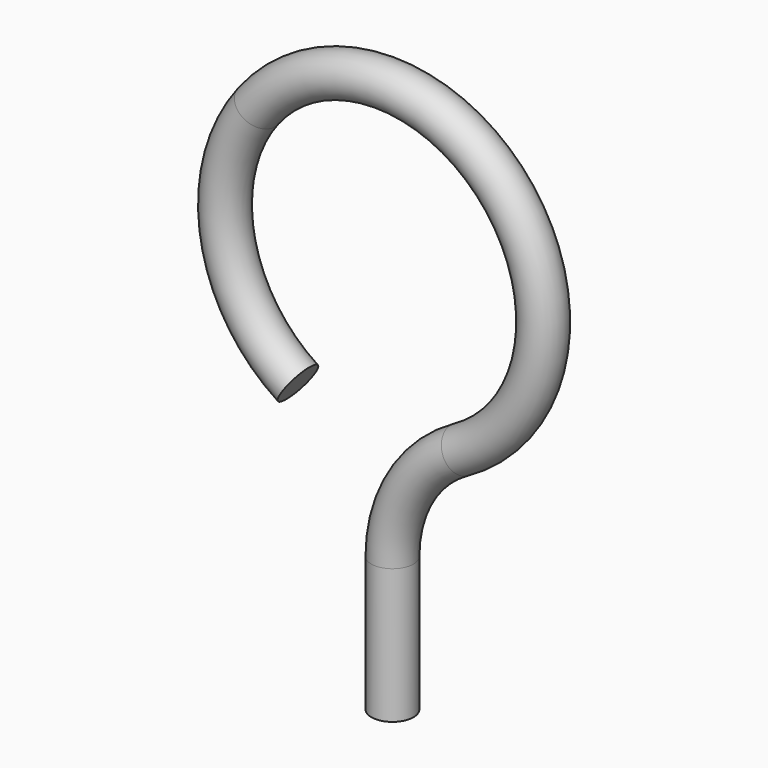
from build123d import *

# Parameters (mm, degrees)
F0_R = 0.79375


with BuildPart() as f2:
    # F2: sweep along a path in F1
    with BuildLine(Plane.XZ) as f2_path:
        Line((0, 0), (0, 5.08))
        ThreePointArc((0, 5.08), (0.694055, 7.622462), (2.583682, 9.459617))
        ThreePointArc((2.583682, 9.459617), (4.232917, 18.61066), (-5.06236, 18.366946))
        ThreePointArc((-5.06236, 18.366946), (-6.222656, 13.687008), (-3.561125, 9.666517))
    # F0 (on Top) → F2 (sweep)
    with BuildSketch(Plane.XY):
        Circle(F0_R)
    sweep(path=f2_path.line)


solid = f2.part
